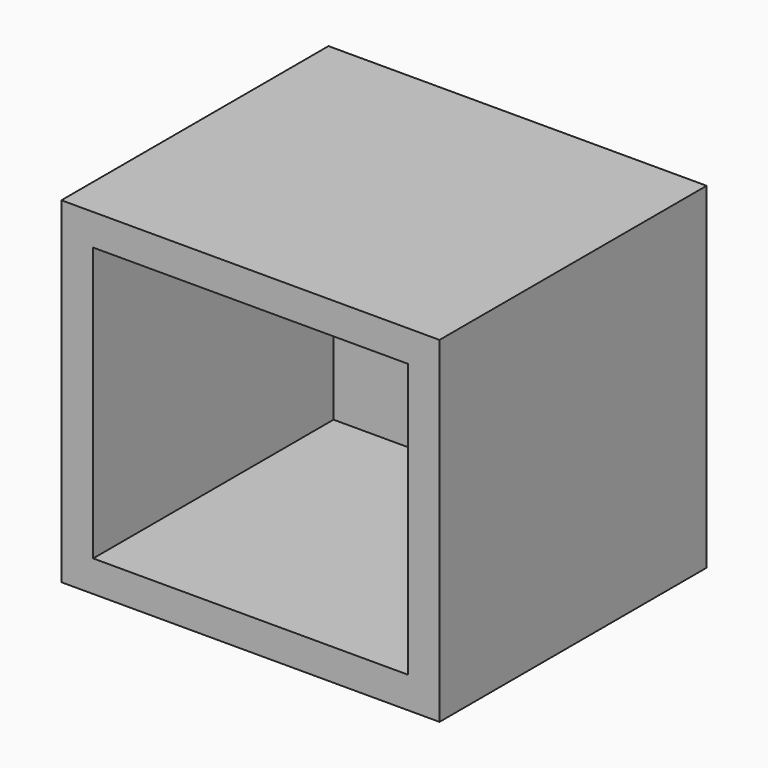
from build123d import *

# Parameters (mm, degrees)
F0_W     = 71.80331
F0_H     = 62.466614
F1_DEPTH = 7.62
F0_W_2   = 86.302102
F0_H_2   = 76.759144
F2_DEPTH = 76.2


with BuildPart() as f1:
    # F0 (on Front) → F1 (new body)
    with BuildSketch(Plane.XZ):
        Rectangle(F0_W, F0_H)
    extrude(amount=F1_DEPTH)

    # F0 (on Front) → F2 (join)
    with BuildSketch(Plane.XZ):
        Rectangle(F0_W_2, F0_H_2)
        Rectangle(F0_W, F0_H, mode=Mode.SUBTRACT)
    extrude(amount=F2_DEPTH)


solid = f1.part
